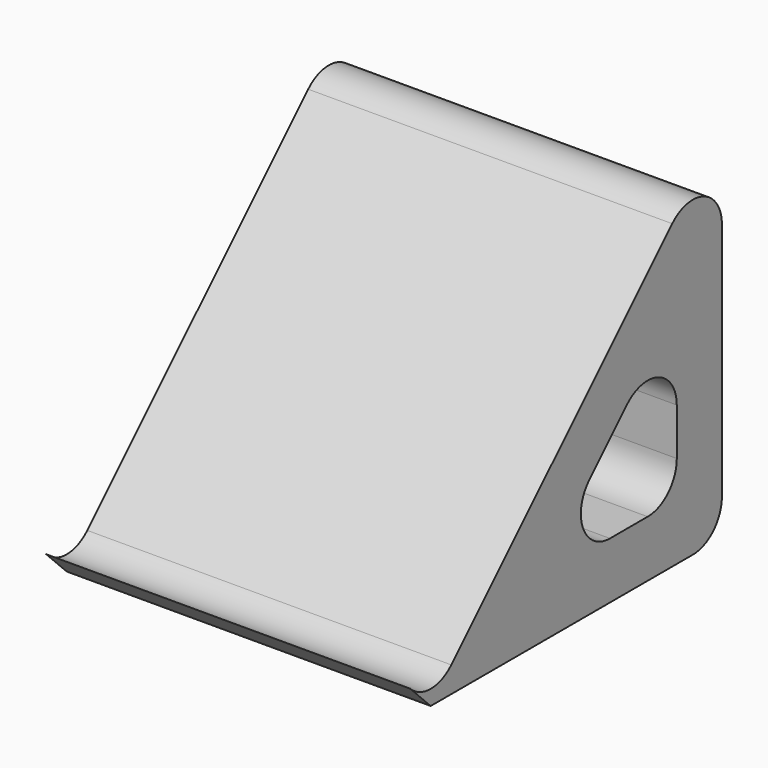
from build123d import *

# Parameters (mm, degrees)
F1_DEPTH = 100
F2_R     = 10


with BuildPart() as f1:
    # F0 (on Right) → F1 (new body)
    with BuildSketch(Plane.YZ):
        Polygon((-50, -50), (50, -50), (50, 50), (-42.928932, -42.928932), align=None)
        Polygon((34.5, -34.5), (-12.57969, -34.5), (34.5, 12.57969), align=None, mode=Mode.SUBTRACT)
        with BuildLine():
            Line((-57.071068, -42.928932), (-50, -50))
            Line((-50, -50), (-42.928932, -42.928932))
            ThreePointArc((-42.928932, -42.928932), (-50, -45.857864), (-57.071068, -42.928932))
        make_face()
    extrude(amount=F1_DEPTH)

    # F2
    f2_edges = [f1.edges().sort_by_distance(p)[0] for p in [
        (50, 50, 50),
        (50, 34.5, 12.57969),
        (50, 50, -50),
        (50, 34.5, -34.5),
        (50, -12.57969, -34.5),
    ]]
    fillet(f2_edges, radius=F2_R)


solid = f1.part
